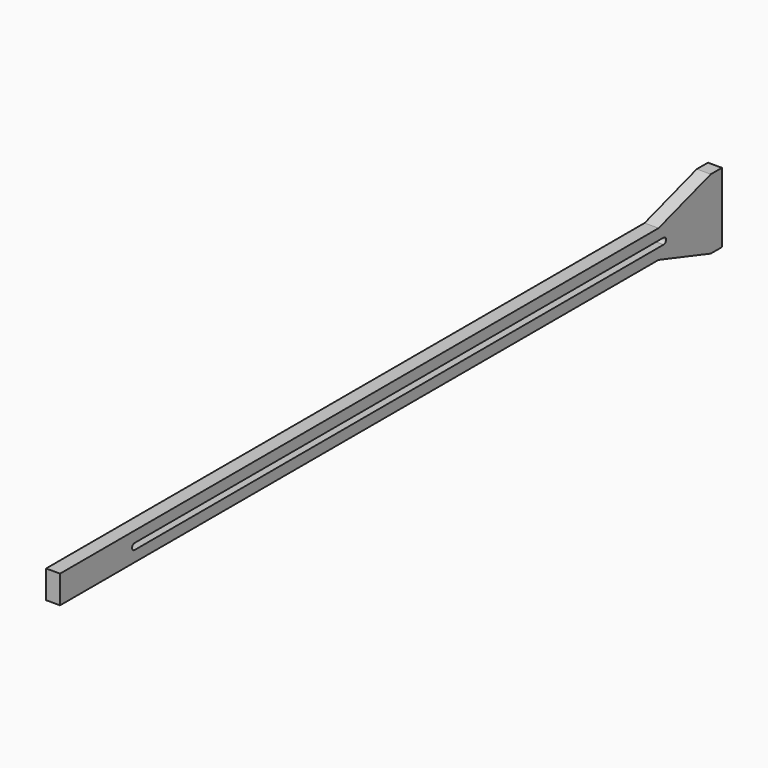
from build123d import *

# Parameters (mm, degrees)
F1_DEPTH = 9


with BuildPart() as f1:
    # F0 (on Right) → F1 (new body)
    with BuildSketch(Plane.YZ):
        Polygon((111.573873, -2.404528), (111.573873, 42.595472), (102.573873, 42.595472), (60.573873, 29.095472), (-361.426127, 29.095472), (-405.426127, 29.095472), (-421.426127, 29.095472), (-421.426127, 11.095472), (-405.426127, 11.095472), (-361.426127, 11.095472), (60.573873, 11.095472), (102.573873, -2.404528), align=None)
        with BuildLine():
            Line((-361.426127, 22.095472), (64.573873, 22.095472))
            ThreePointArc((64.573873, 22.095472), (66.573873, 20.095472), (64.573873, 18.095472))
            Line((64.573873, 18.095472), (-361.426127, 18.095472))
            ThreePointArc((-361.426127, 18.095472), (-363.426127, 20.095472), (-361.426127, 22.095472))
        make_face(mode=Mode.SUBTRACT)
    extrude(amount=F1_DEPTH)


solid = f1.part
